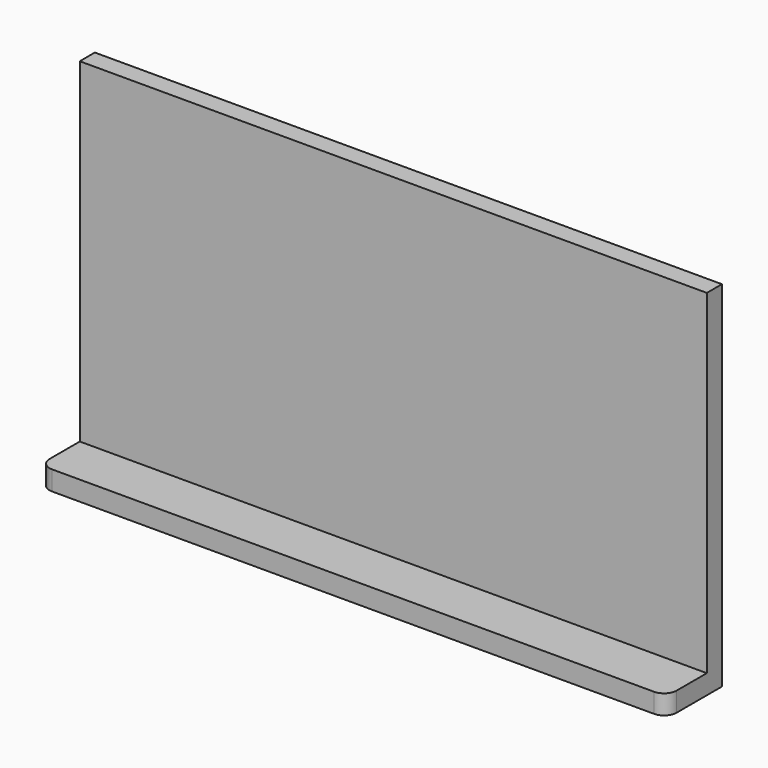
from build123d import *

# Parameters (mm, degrees)
F0_W     = 253.463477
F0_H     = 143.187359
F1_DEPTH = 7.62
F2_W     = 253.463477
F2_H     = 7.869393
F3_DEPTH = 20.32
F4_R     = 5.08
F5_R     = 5.08


with BuildPart() as f1:
    # F0 (on Front) → F1 (new body)
    with BuildSketch(Plane.XZ):
        with Locations((-1.044854, 5.933448)):
            Rectangle(F0_W, F0_H)
    extrude(amount=F1_DEPTH)

    # F2 (on face) → F3 (join)
    with BuildSketch(Plane.XZ.offset(7.62)):
        with Locations((-1.044854, -61.725534)):
            Rectangle(F2_W, F2_H)
    extrude(amount=F3_DEPTH)

    # F4
    f4_edges = [f1.edges().sort_by_distance(p)[0] for p in [
        (-127.776593, -27.94, -61.725534),
    ]]
    fillet(f4_edges, radius=F4_R)

    # F5
    f5_edges = [f1.edges().sort_by_distance(p)[0] for p in [
        (125.686884, -27.94, -61.725534),
    ]]
    fillet(f5_edges, radius=F5_R)


solid = f1.part
